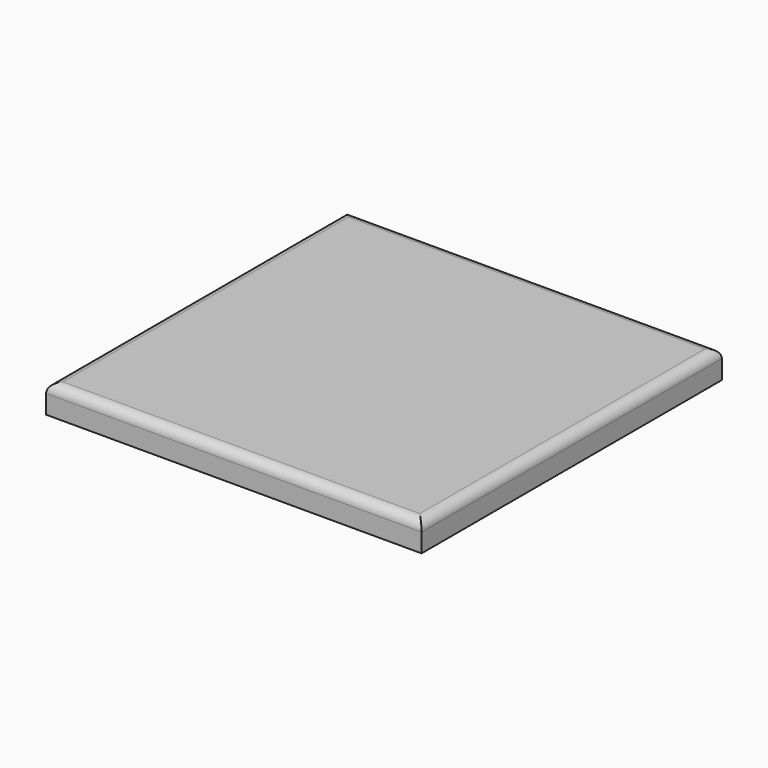
from build123d import *

# Parameters (mm, degrees)
SKETCH_W  = 40
SKETCH_H  = 40
PAD_DEPTH = 3
FILLET_R  = 1


with BuildPart() as part:
    # Sketch → Pad (new body)
    with BuildSketch(Plane.XY):
        Rectangle(SKETCH_W, SKETCH_H)
    extrude(amount=PAD_DEPTH)

    # Fillet
    fillet_edges = [part.edges().sort_by_distance(p)[0] for p in [
        (20, 0, 3),
        (0, -20, 3),
        (-20, 0, 3),
        (0, 20, 3),
    ]]
    fillet(fillet_edges, radius=FILLET_R)


solid = part.part
